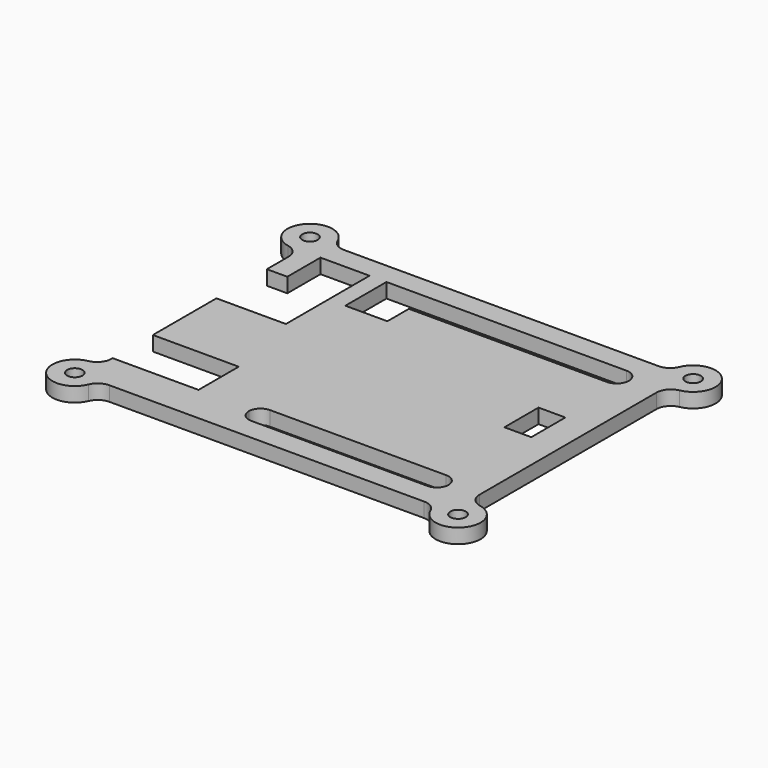
from build123d import *

# Parameters (mm, degrees)
F0_R     = 1.6764
F0_W     = 5.842
F0_H     = 9.271
F1_DEPTH = 3.175


with BuildPart() as f1:
    # F0 (on Top) → F1 (new body)
    with BuildSketch(Plane.XY):
        with BuildLine():
            Line((34.223325677, 31.877), (-34.2168985559, 31.877))
            ThreePointArc((-34.2168985559, 31.877), (-35.9785916336, 32.4105870259), (-37.1481482894, 33.832))
            ThreePointArc((-37.1481482894, 33.832), (-45.4553961584, 35.0385567114), (-42.5824696374, 27.1510704541))
            ThreePointArc((-42.5824696374, 27.1510704541), (-40.7327787287, 26.0556077803), (-40.005, 24.0328045152))
            Line((-40.005, 24.0328045152), (-40.005, 18.161))
            Line((-40.005, 18.161), (-35.56, 18.161))
            Line((-35.56, 18.161), (-35.56, 27.178))
            Line((-35.56, 27.178), (-24.892, 27.178))
            Line((-24.892, 27.178), (-24.892, 4.445))
            Line((-24.892, 4.445), (-35.56, 4.445))
            Line((-35.56, 4.445), (-40.005, 4.445))
            Line((-40.005, 4.445), (-40.005, -12.827))
            Line((-40.005, -12.827), (-21.336, -12.827))
            Line((-21.336, -12.827), (-21.336, -23.749))
            Line((-21.336, -23.749), (-40.005, -23.749))
            Line((-40.005, -23.749), (-40.005, -24.0315756363))
            ThreePointArc((-40.005, -24.0315756363), (-40.7335995831, -26.0553715746), (-42.585, -27.1503253858))
            ThreePointArc((-42.585, -27.1503253858), (-45.4630746991, -35.0370175843), (-37.1545754104, -33.832))
            ThreePointArc((-37.1545754104, -33.832), (-35.9850187547, -32.4105870259), (-34.223325677, -31.877))
            Line((-34.223325677, -31.877), (34.223325677, -31.877))
            ThreePointArc((34.223325677, -31.877), (35.9850187547, -32.4105870259), (37.1545754104, -33.832))
            ThreePointArc((37.1545754104, -33.832), (45.4630746991, -35.0370175843), (42.585, -27.1503253858))
            ThreePointArc((42.585, -27.1503253858), (40.7335995831, -26.0553715746), (40.005, -24.0315756363))
            Line((40.005, -24.0315756363), (40.005, 24.0315756363))
            ThreePointArc((40.005, 24.0315756363), (40.7335995831, 26.0553715746), (42.585, 27.1503253858))
            ThreePointArc((42.585, 27.1503253858), (45.4630746991, 35.0370175843), (37.1545754104, 33.832))
            ThreePointArc((37.1545754104, 33.832), (35.9850187547, 32.4105870259), (34.223325677, 31.877))
        make_face()
        with Locations((-41.6687, -31.9532)):
            Circle(F0_R, mode=Mode.SUBTRACT)
        with BuildLine():
            Line((31.115, -27.051), (-7.239, -27.051))
            ThreePointArc((-7.239, -27.051), (-9.0350512242, -26.3070512242), (-9.779, -24.511))
            ThreePointArc((-9.779, -24.511), (-9.0350512242, -22.7149487758), (-7.239, -21.971))
            Line((-7.239, -21.971), (31.115, -21.971))
            ThreePointArc((31.115, -21.971), (32.9110512242, -22.7149487758), (33.655, -24.511))
            ThreePointArc((33.655, -24.511), (32.9110512242, -26.3070512242), (31.115, -27.051))
        make_face(mode=Mode.SUBTRACT)
        with Locations((41.6687, -31.9532)):
            Circle(F0_R, mode=Mode.SUBTRACT)
        with Locations((-41.6622728789, 31.9532)):
            Circle(F0_R, mode=Mode.SUBTRACT)
        with Locations((30.734, 2.6035)):
            Rectangle(F0_W, F0_H, mode=Mode.SUBTRACT)
        with BuildLine():
            Line((-21.209, 16.002), (-21.209, 27.178))
            Line((-21.209, 27.178), (30.988, 27.178))
            ThreePointArc((30.988, 27.178), (32.8738537854, 26.3968537854), (33.655, 24.511))
            ThreePointArc((33.655, 24.511), (32.8738537854, 22.6251462146), (30.988, 21.844))
            Line((30.988, 21.844), (-9.779, 21.844))
            Line((-9.779, 21.844), (-12.065, 21.844))
            Line((-12.065, 21.844), (-12.065, 16.002))
            Line((-12.065, 16.002), (-21.209, 16.002))
        make_face(mode=Mode.SUBTRACT)
        with Locations((41.6687, 31.9532)):
            Circle(F0_R, mode=Mode.SUBTRACT)
    extrude(amount=F1_DEPTH)


solid = f1.part
